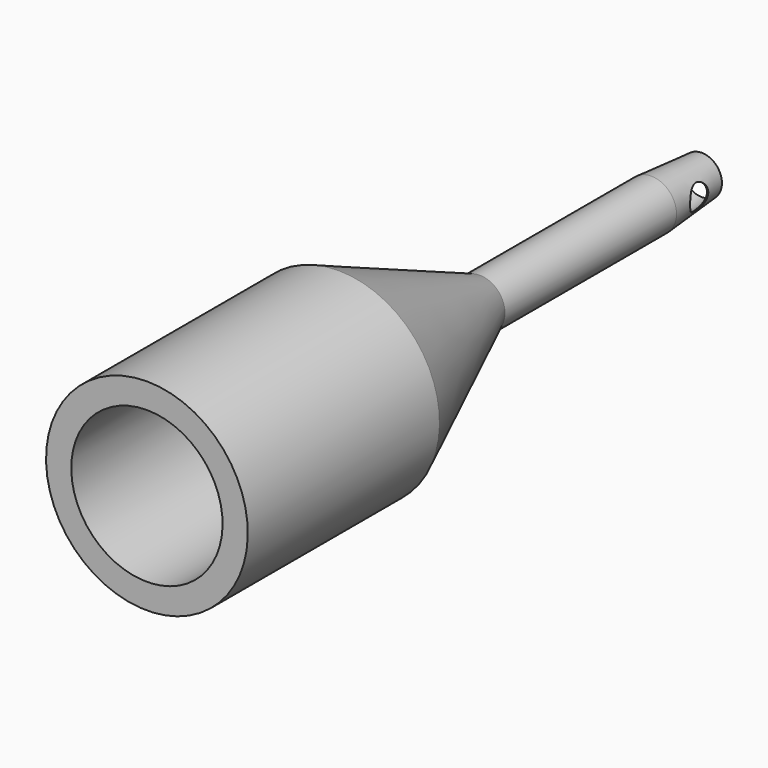
from build123d import *

# Parameters (mm, degrees)
F2_R     = 0.5
F3_DEPTH = 1


with BuildPart() as f1:
    # F0 (on Right) → F1 (revolve)
    with BuildSketch(Plane.YZ):
        Polygon((0, 4), (0, 3), (6.5, 3), (6.5, 2.25), (7.25, 2.25), (7.25, 2.75), (9.5, 2.75), (16.5, 0.95), (25, 0.95), (27.5, 0.75), (27.5, 0.8), (25, 1), (16.5, 1), (9.5, 4), align=None)
    revolve(axis=Axis((0, 16.018412, 0), (0, 1, 0)))

    # F2 (on Right) → F3 (cut, symmetric)
    with BuildSketch(Plane.YZ):
        with Locations((26.25, 0)):
            Circle(F2_R)
    extrude(amount=F3_DEPTH, both=True, mode=Mode.SUBTRACT)


solid = f1.part
